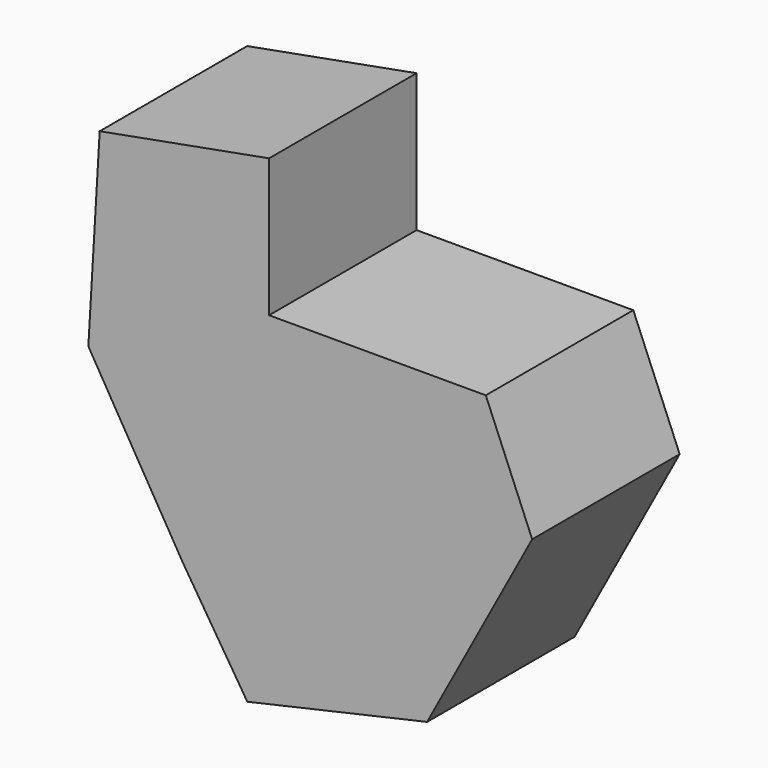
from build123d import *

# Parameters (mm, degrees)
F1_DEPTH = 33.001818


with BuildPart() as f1:
    # F0 (on Front) → F1 (new body)
    with BuildSketch(Plane.XZ):
        Polygon((-28.287828, 32.353118), (-28.287828, 57.083774), (-58.608286, 51.493969), (-60.640939, 16.938806), (-43.70214, -11.687778), (-32.183751, -29.812306), (0, -22.528619), (18.802062, 12.365326), (10.50204, 32.353118), align=None)
    extrude(amount=-F1_DEPTH)


solid = f1.part
